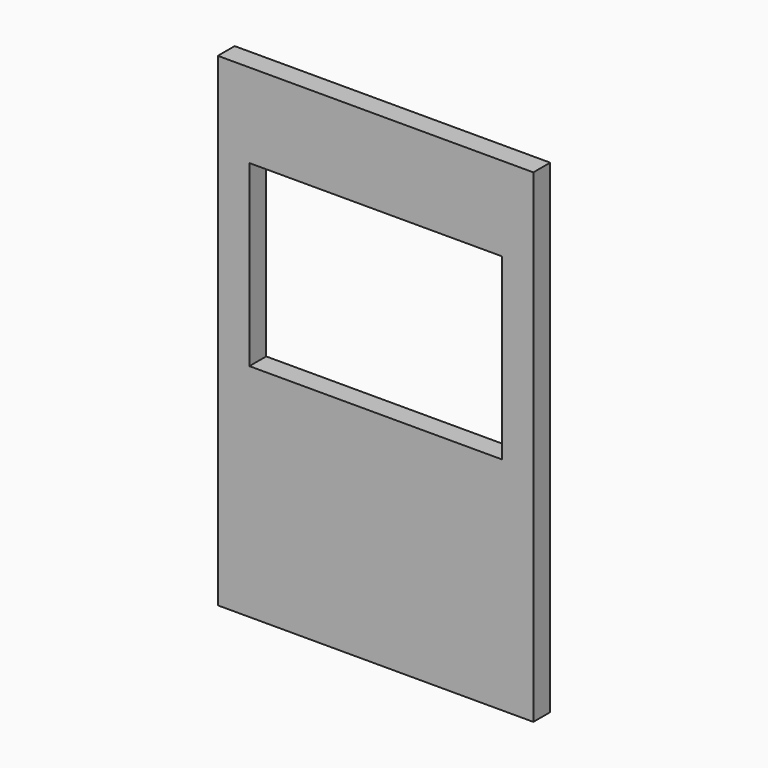
from build123d import *

# Parameters (mm, degrees)
F0_W     = 1200
F0_H     = 1050
F1_DEPTH = 100
F2_W     = 150
F2_H     = 100
F3_DEPTH = 2300
F4_W     = 1200
F4_H     = 400
F5_DEPTH = 100


with BuildPart() as f1:
    # F0 (on Front) → F1 (new body)
    with BuildSketch(Plane.XZ):
        Rectangle(F0_W, F0_H)
    extrude(amount=F1_DEPTH)

    # F2 (on face) → F3 (join)
    with BuildSketch(Plane(origin=(0, 0, -525), x_dir=(1, 0, 0), z_dir=(0, 0, -1))):
        with Locations((675, 50)):
            Rectangle(F2_W, F2_H)
        with Locations((-675, 50)):
            Rectangle(F2_W, F2_H)
    extrude(amount=-F3_DEPTH)

    # F4 (on face) → F5 (join, through all)
    with BuildSketch(Plane.XZ.offset(100)):
        with Locations((0, 1575)):
            Rectangle(F4_W, F4_H)
    extrude(amount=-F5_DEPTH)


solid = f1.part
